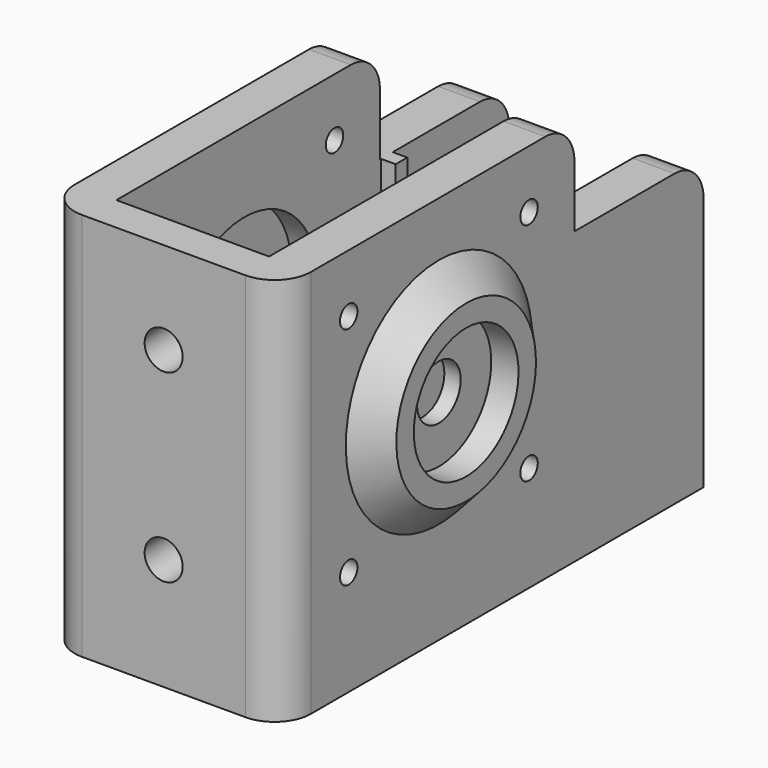
from build123d import *

# Parameters (mm, degrees)
F1_DEPTH       = 16.25
F2_R           = 3.75
F3_DEPTH       = 16.251
F3_DEPTH_BACK  = 16.251
F4_W           = 21
F4_H           = 67.5
F5_DEPTH       = 47.5
F10_W          = 21
F10_H          = 6
F11_DEPTH      = 20
F12_W          = 2
F12_H          = 2
F13_DEPTH      = 34
F14_R          = 12.5
F15_DEPTH      = 14
F16_R          = 5
F17_R          = 1.5
F18_DEPTH      = 20.001
F18_DEPTH_BACK = 20.001
F19_R          = 2.6162
F20_DEPTH      = 25


with BuildPart() as f1:
    # F0 (on Right) → F1 (new body, symmetric)
    with BuildSketch(Plane.YZ):
        with BuildLine():
            Line((0, 53.5), (0, 0))
            Line((0, 0), (72.5, 0))
            Line((72.5, 0), (72.5, 35))
            ThreePointArc((72.5, 35), (71.0355339059, 38.5355339059), (67.5, 40))
            Line((67.5, 40), (50.3, 40))
            Line((50.3, 40), (50.3, 48.5))
            ThreePointArc((50.3, 48.5), (48.8355339059, 52.0355339059), (45.3, 53.5))
            Line((45.3, 53.5), (0, 53.5))
        make_face()
    extrude(amount=F1_DEPTH, both=True)

    # F2 (on Right) → F3 (cut, two sides)
    with BuildSketch(Plane.YZ) as f3_sk:
        with Locations((27, 30)):
            Circle(F2_R)
    extrude(amount=-F3_DEPTH, mode=Mode.SUBTRACT)
    extrude(f3_sk.sketch, amount=F3_DEPTH_BACK, mode=Mode.SUBTRACT)

    # F4 (on face) → F5 (cut)
    with BuildSketch(Plane.XY.offset(53.5)):
        with Locations((0, 38.75)):
            Rectangle(F4_W, F4_H)
    extrude(amount=-F5_DEPTH, mode=Mode.SUBTRACT)

    # F7 (on offset) → F8 (revolve)
    with BuildSketch(Plane.XZ.offset(-27)):
        Polygon((20, 42), (16.25, 46), (16.25, 39), (20, 39), align=None)
    revolve(axis=Axis((16.25, 27, 30), (1, 0, 0)))

    # F9: F1 across plane


with BuildPart() as f1_1:
    add(f1.part)
    add(f1.part.mirror(Plane.YZ))

    # F10 (on face) → F11 (cut)
    with BuildSketch(Plane(origin=(0, 72.5, 0), x_dir=(-1, 0, 0), z_dir=(0, 1, 0))):
        with Locations((0, 3)):
            Rectangle(F10_W, F10_H)
    extrude(amount=-F11_DEPTH, mode=Mode.SUBTRACT)

    # F12 (on face) → F13 (join, through all)
    with BuildSketch(Plane.XY.offset(6)):
        with Locations((-9.5, 51.5)):
            Rectangle(F12_W, F12_H)
        with Locations((9.5, 51.5)):
            Rectangle(F12_W, F12_H)
    extrude(amount=F13_DEPTH)

    # F14 (on Right) → F15 (cut, symmetric)
    with BuildSketch(Plane.YZ):
        with Locations((27, 30)):
            Circle(F14_R)
    extrude(amount=F15_DEPTH, both=True, mode=Mode.SUBTRACT)

    # F16
    f16_edges = [f1_1.edges().sort_by_distance(p)[0] for p in [
        (16.25, 0, 26.75),
        (-16.25, 0, 26.75),
    ]]
    fillet(f16_edges, radius=F16_R)

    # F17 (on Right) → F18 (cut, two sides)
    with BuildSketch(Plane.YZ) as f18_sk:
        with Locations((11.5, 45.5)):
            Circle(F17_R)
        with Locations((11.5, 14.5)):
            Circle(F17_R)
        with Locations((42.5, 14.5)):
            Circle(F17_R)
        with Locations((42.5, 45.5)):
            Circle(F17_R)
    extrude(amount=-F18_DEPTH, mode=Mode.SUBTRACT)
    extrude(f18_sk.sketch, amount=F18_DEPTH_BACK, mode=Mode.SUBTRACT)

    # F19 (on face) → F20 (cut)
    with BuildSketch(Plane.XZ):
        with Locations((0, 40.8)):
            Circle(F19_R)
        with Locations((0, 15.4)):
            Circle(F19_R)
    extrude(amount=-F20_DEPTH, mode=Mode.SUBTRACT)


solid = f1_1.part
